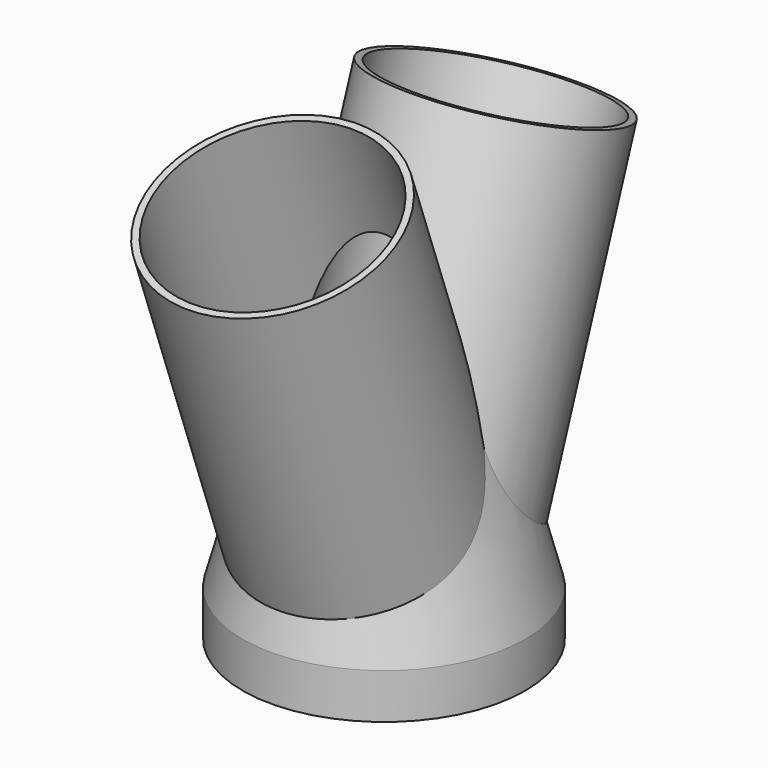
from build123d import *

# Parameters (mm, degrees)
SKETCH_R        = 62.5
PAD_DEPTH       = 100
PAD_TAPER       = 15
SKETCH001_R     = 50
PAD001_DEPTH    = 180
SKETCH002_R     = 50
PAD002_DEPTH    = 180
SKETCH003_R     = 47
POCKET_DEPTH    = 233.196381
SKETCH004_R     = 47
POCKET001_DEPTH = 233.196381
SKETCH005_R     = 59.5
POCKET002_DEPTH = 75
POCKET002_TAPER = 15
PAD003_DEPTH    = 20
POCKET003_DEPTH = 20


with BuildPart() as part:
    # Sketch → Pad (new body)
    with BuildSketch(Plane.XY):
        Circle(SKETCH_R)
    extrude(amount=PAD_DEPTH, taper=PAD_TAPER)

    # Sketch001 (on DatumPlane) → Pad001 (join)
    with BuildSketch(Plane(origin=(0, 0, 0), x_dir=(1, 0, 0), z_dir=(0, 0.34202, 0.939693))):
        Circle(SKETCH001_R)
    extrude(amount=PAD001_DEPTH)

    # Sketch002 (on DatumPlane) → Pad002 (join)
    with BuildSketch(Plane(origin=(0, 0, 0), x_dir=(1, 0, 0), z_dir=(0, -0.34202, 0.939693))):
        Circle(SKETCH002_R)
    extrude(amount=PAD002_DEPTH)

    # Sketch003 (on Face7 of Pad002) → Pocket (cut, through all)
    with BuildSketch(Plane(origin=(0, 61.563626, 169.144672), x_dir=(1, 0, 0), z_dir=(0, 0.34202, 0.939693))):
        Circle(SKETCH003_R)
    extrude(amount=-POCKET_DEPTH, mode=Mode.SUBTRACT)

    # Sketch004 (on Face8 of Pocket) → Pocket001 (cut, through all)
    with BuildSketch(Plane(origin=(0, -61.563626, 169.144672), x_dir=(1, 0, 0), z_dir=(0, -0.34202, 0.939693))):
        Circle(SKETCH004_R)
    extrude(amount=-POCKET001_DEPTH, mode=Mode.SUBTRACT)

    # Sketch005 (on Face2 of Pocket001) → Pocket002 (cut)
    with BuildSketch(Plane(origin=(0, 0, 0), x_dir=(1, 0, 0), z_dir=(0, 0, -1))):
        Circle(SKETCH005_R)
    extrude(amount=-POCKET002_DEPTH, taper=POCKET002_TAPER, mode=Mode.SUBTRACT)

    # Sketch → Pad003 (join)
    with BuildSketch(Plane.XY):
        Circle(SKETCH_R)
    extrude(amount=-PAD003_DEPTH)

    # Sketch005 (on Face2 of Pocket001) → Pocket003 (cut)
    with BuildSketch(Plane(origin=(0, 0, 0), x_dir=(1, 0, 0), z_dir=(0, 0, -1))):
        Circle(SKETCH005_R)
    extrude(amount=POCKET003_DEPTH, mode=Mode.SUBTRACT)


solid = part.part
